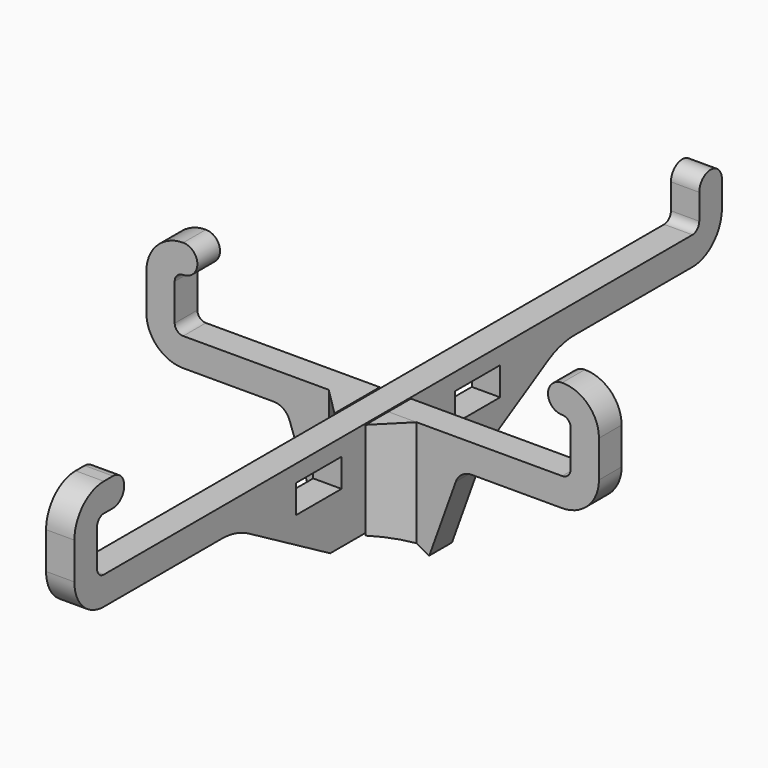
from build123d import *

# Parameters (mm, degrees)
SKETCH_W     = 10
SKETCH_H     = 5
PAD_DEPTH    = 2.5
PAD001_DEPTH = 2.5
PAD002_DEPTH = 20
POCKET_DEPTH = 10


with BuildPart() as vertical:
    # Sketch → Pad (new body, symmetric)
    with BuildSketch(Plane.YZ):
        with BuildLine():
            Line((71.45, 18.5), (71.45, 22.999999))
            ThreePointArc((71.45, 22.999999), (68.95, 25.5), (66.45, 23))
            Line((66.45, 18.500001), (66.45, 23))
            ThreePointArc((64.950002, 17), (66.010661, 17.439341), (66.45, 18.500001))
            Line((-64.950002, 17), (64.950002, 17))
            ThreePointArc((-66.45, 18.500001), (-66.010661, 17.439341), (-64.950002, 17))
            Line((-66.45, 24.999999), (-66.45, 18.500001))
            ThreePointArc((-64.950002, 26.5), (-66.010661, 26.060659), (-66.45, 24.999999))
            Line((-64.950002, 26.5), (-62.950002, 26.5))
            ThreePointArc((-62.950002, 26.5), (-60.450002, 29), (-62.950002, 31.5))
            Line((-62.950002, 31.5), (-64.950002, 31.5))
            ThreePointArc((-64.950002, 31.5), (-69.546195, 29.596193), (-71.45, 25))
            Line((-71.45, 18.5), (-71.45, 25))
            ThreePointArc((-71.45, 18.5), (-69.546195, 13.903807), (-64.950001, 12))
            Line((-64.950001, 12), (-38.96077, 12))
            ThreePointArc((-33, 10.392302), (-35.873884, 11.59102), (-38.96077, 12))
            Line((-15, 0), (-33, 10.392302))
            Line((-15, 0), (-2.75, 0))
            Line((-2.75, 0), (-2.75, 8.7))
            Line((-2.75, 8.7), (2.75, 8.7))
            Line((2.75, 8.7), (2.75, 0))
            Line((2.75, 0), (15, 0))
            Line((15, 0), (33, 10.392302))
            ThreePointArc((38.96077, 12), (35.873884, 11.59102), (33, 10.392302))
            Line((38.96077, 12), (64.95, 12))
            ThreePointArc((64.95, 12), (69.546194, 13.903806), (71.45, 18.5))
        make_face()
        with Locations((-17.5, 11.5)):
            Rectangle(SKETCH_W, SKETCH_H, mode=Mode.SUBTRACT)
        with Locations((17.5, 11.5)):
            Rectangle(SKETCH_W, SKETCH_H, mode=Mode.SUBTRACT)
    extrude(amount=PAD_DEPTH, both=True)


with BuildPart() as fusion:
    # Sketch001 → Pad001 (new body, symmetric)
    with BuildSketch(Plane.XZ):
        with BuildLine():
            Line((17.5, 12.000001), (33.450002, 12))
            ThreePointArc((33.450002, 12), (38.046195, 13.903807), (39.95, 18.500001))
            Line((39.95, 24.999999), (39.95, 18.500001))
            ThreePointArc((39.95, 24.999999), (38.046196, 29.596193), (33.450003, 31.500001))
            ThreePointArc((33.450003, 31.500001), (30.950003, 29.000001), (33.450003, 26.500001))
            ThreePointArc((34.95, 24.999999), (34.510662, 26.060659), (33.450003, 26.500001))
            Line((34.95, 18.500002), (34.95, 24.999999))
            ThreePointArc((33.450003, 17), (34.510662, 17.439341), (34.95, 18.500002))
            Line((2.75, 17), (33.450003, 17))
            Line((2.75, 8.3), (2.75, 17))
            Line((-2.75, 8.3), (2.75, 8.3))
            Line((-2.75, 17.000001), (-2.75, 8.3))
            Line((-33.45, 17.000001), (-2.75, 17.000001))
            ThreePointArc((-34.95, 18.500002), (-34.51066, 17.439341), (-33.45, 17.000001))
            Line((-34.95, 18.500002), (-34.95, 24.999999))
            ThreePointArc((-33.450003, 26.500001), (-34.510662, 26.060659), (-34.95, 24.999999))
            ThreePointArc((-33.450003, 26.500001), (-30.950003, 29.000001), (-33.450003, 31.500001))
            ThreePointArc((-33.450003, 31.500001), (-38.046196, 29.596193), (-39.95, 24.999999))
            Line((-39.95, 24.999999), (-39.95, 18.500002))
            ThreePointArc((-39.95, 18.500002), (-38.046195, 13.903808), (-33.450003, 12.000001))
            Line((-33.450003, 12.000001), (-17.5, 12.000001))
            ThreePointArc((-14.676752, 10.014531), (-15.774252, 11.453935), (-17.5, 12.000001))
            Line((-14.676752, 10.014531), (-10, -3))
            Line((-10, -3), (10, -3))
            Line((10, -3), (14.676752, 10.014531))
            ThreePointArc((17.5, 12.000001), (15.774252, 11.453936), (14.676752, 10.014531))
        make_face()
    extrude(amount=PAD001_DEPTH, both=True)

    # Sketch002 → Pad002 (new body)
    with BuildSketch(Plane(origin=(0, 0, 17.000001), x_dir=(-1, 0, 0), z_dir=(0, 0, 1))):
        Polygon((-7.75, 2.5), (-2.75, 7.5), (-2.75, 2.5), align=None)
        Polygon((2.75, 7.5), (2.75, 2.5), (7.75, 2.5), align=None)
    extrude(amount=-PAD002_DEPTH)

    # Sketch003 → Pocket (cut)
    with BuildSketch(Plane(origin=(0, 2.5, 0), x_dir=(1, 0, 0), z_dir=(0, 1, 0))):
        with BuildLine():
            ThreePointArc((-10, 3.138593), (0, 0), (10, 3.138593))
            Line((-10, 3.138593), (10, 3.138593))
        make_face()
    extrude(amount=-POCKET_DEPTH, mode=Mode.SUBTRACT)

    # Fusion: union Vertical
    add(vertical.part)


solid = fusion.part
